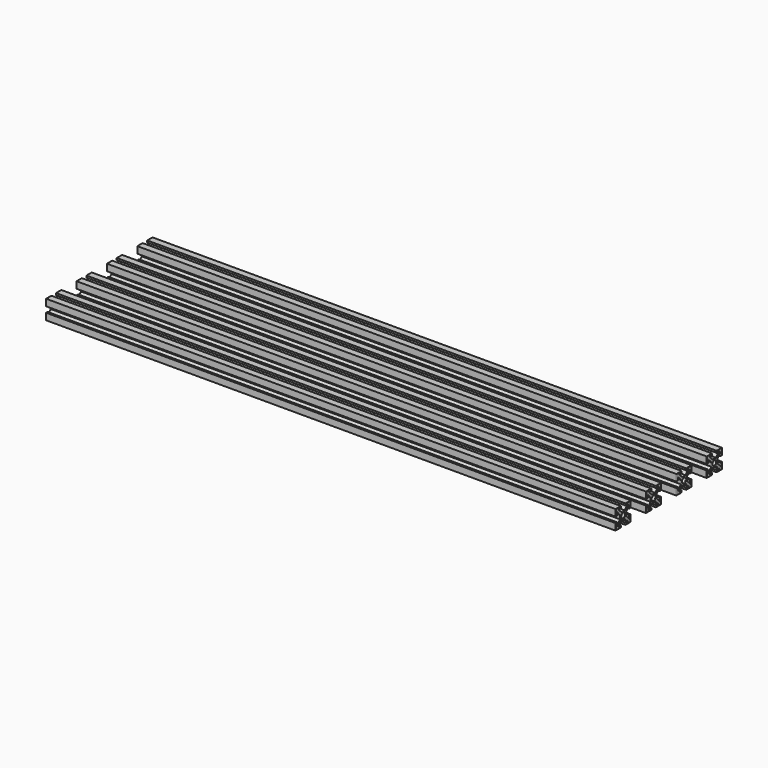
from build123d import *

# Parameters (mm, degrees)
SKETCH_R  = 1.25
PAD_DEPTH = 300
FILLET_R  = 0.2


with BuildPart() as fillet_body:
    # Sketch → Pad (new body)
    with BuildSketch(Plane.ZY):
        Polygon((-1, 2), (1, 2), (3, 4), (1.5, 4), (1.5, 5), (5, 5), (5, 1.5), (4, 1.5), (4, 3), (2, 1), (2, -1), (4, -3), (4, -1.5), (5, -1.5), (5, -5), (1.5, -5), (1.5, -4), (3, -4), (1, -2), (-1, -2), (-3, -4), (-1.5, -4), (-1.5, -5), (-5, -5), (-5, -1.5), (-4, -1.5), (-4, -3), (-2, -1), (-2, 1), (-4, 3), (-4, 1.5), (-5, 1.5), (-5, 5), (-1.5, 5), (-1.5, 4), (-3, 4), align=None)
        Circle(SKETCH_R, mode=Mode.SUBTRACT)
    extrude(amount=PAD_DEPTH)

    # Fillet
    fillet_edges = [fillet_body.edges().sort_by_distance(p)[0] for p in [
        (0, 2, 0),
        (0, 3, 2),
        (0, 4, 2.25),
        (0, 4.5, 1.5),
        (0, 5, 3.25),
        (0, 3.25, 5),
        (0, 1.5, 4.5),
        (0, 2.25, 4),
        (0, 2, 3),
        (0, 0, 2),
        (0, -2, 3),
        (0, -2.25, 4),
        (0, -1.5, 4.5),
        (0, -3.25, 5),
        (0, -5, 3.25),
        (0, -4.5, 1.5),
        (0, -4, 2.25),
        (0, -3, 2),
        (0, -2, 0),
        (0, -3, -2),
        (0, -4, -2.25),
        (0, -4.5, -1.5),
        (0, -5, -3.25),
        (0, -3.25, -5),
        (0, -1.5, -4.5),
        (0, -2.25, -4),
        (0, -2, -3),
        (0, 0, -2),
        (0, 2, -3),
        (0, 2.25, -4),
        (0, 1.5, -4.5),
        (0, 3.25, -5),
        (0, 5, -3.25),
        (0, 4.5, -1.5),
        (0, 4, -2.25),
        (0, 3, -2),
        (0, 0, -1.25),
        (-300, 2, 0),
        (-300, 3, 2),
        (-300, 4, 2.25),
        (-300, 4.5, 1.5),
        (-300, 5, 3.25),
        (-300, 3.25, 5),
        (-300, 1.5, 4.5),
        (-300, 2.25, 4),
        (-300, 2, 3),
        (-300, 0, 2),
        (-300, -2, 3),
        (-300, -2.25, 4),
        (-300, -1.5, 4.5),
        (-300, -3.25, 5),
        (-300, -5, 3.25),
        (-300, -4.5, 1.5),
        (-300, -4, 2.25),
        (-300, -3, 2),
        (-300, -2, 0),
        (-300, -3, -2),
        (-300, -4, -2.25),
        (-300, -4.5, -1.5),
        (-300, -5, -3.25),
        (-300, -3.25, -5),
        (-300, -1.5, -4.5),
        (-300, -2.25, -4),
        (-300, -2, -3),
        (-300, 0, -2),
        (-300, 2, -3),
        (-300, 2.25, -4),
        (-300, 1.5, -4.5),
        (-300, 3.25, -5),
        (-300, 5, -3.25),
        (-300, 4.5, -1.5),
        (-300, 4, -2.25),
        (-300, 3, -2),
        (-300, 0, -1.25),
    ]]
    fillet(fillet_edges, radius=FILLET_R)


with BuildPart() as clone_of_fillet:
    # Clone base: copy of Fillet body
    add(fillet_body.part)


with BuildPart() as clone_of_fillet_1:
    # Clone placement: moved
    add(clone_of_fillet.part.moved(Location((0, 20, 0))))


with BuildPart() as clone_of_fillet001:
    # Clone001 base: copy of Fillet body
    add(fillet_body.part)


with BuildPart() as clone_of_fillet001_1:
    # Clone001 placement: moved
    add(clone_of_fillet001.part.moved(Location((0, 40, 0))))


with BuildPart() as clone_of_fillet002:
    # Clone002 base: copy of Fillet body
    add(fillet_body.part)


with BuildPart() as clone_of_fillet002_1:
    # Clone002 placement: moved
    add(clone_of_fillet002.part.moved(Location((0, 60, 0))))


solid = Compound([fillet_body.part, clone_of_fillet_1.part, clone_of_fillet001_1.part, clone_of_fillet002_1.part])
